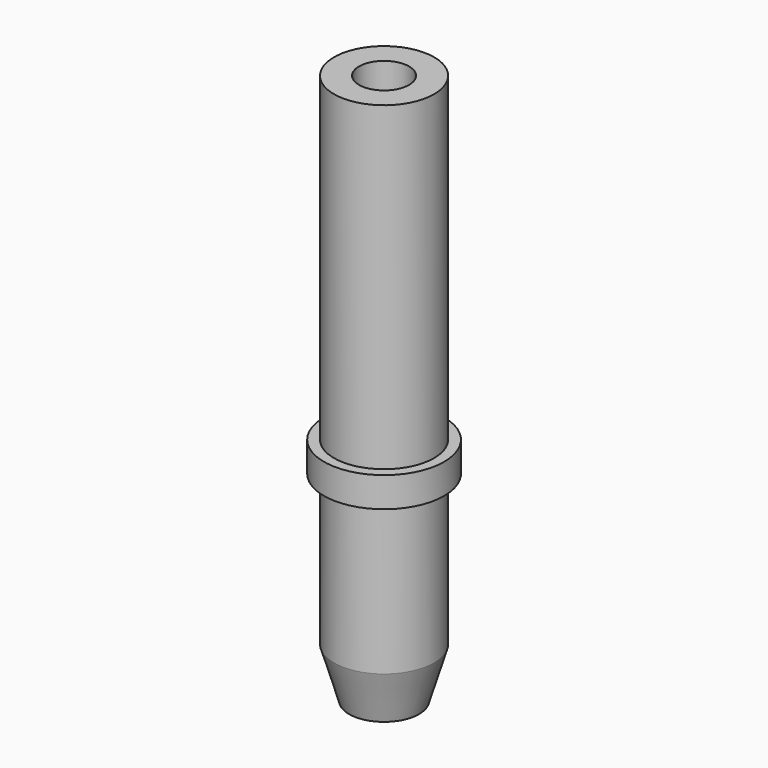
from build123d import *


with BuildPart() as f1:
    # F0 (on Front) → F1 (revolve)
    with BuildSketch(Plane.XZ):
        Polygon((5, 0), (2.5, 0), (2.5, -7.5), (0, -7.5), (0, -32), (0, -35), (0, -50), (3.5, -50), (5, -50), (5, -35), (6, -35), (6, -32), (5, -32), align=None)
        Polygon((3.5, -50), (0, -50), (0, -55), (3.5, -55), (5, -50), align=None)
    revolve(axis=Axis((0, 0, -28.75), (0, 0, -1)))


solid = f1.part
